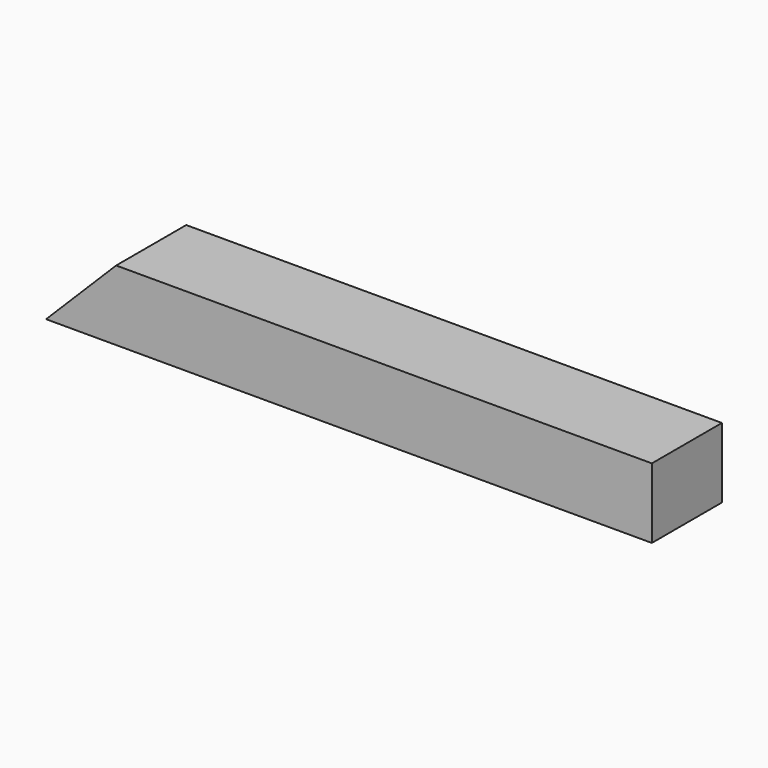
from build123d import *

# Parameters (mm, degrees)
F0_W     = 95.25
F0_H     = 76.2
F1_DEPTH = 658.8125
F3_DEPTH = 95.251


with BuildPart() as f1:
    # F0 (on Right) → F1 (new body)
    with BuildSketch(Plane.YZ):
        with Locations((-47.625, -38.1)):
            Rectangle(F0_W, F0_H)
    extrude(amount=F1_DEPTH)

    # F2 (on face) → F3 (cut, through all)
    with BuildSketch(Plane.XZ.offset(95.25)):
        Polygon((76.2, 0), (0, 0), (0, -76.2), align=None)
    extrude(amount=-F3_DEPTH, mode=Mode.SUBTRACT)


solid = f1.part
